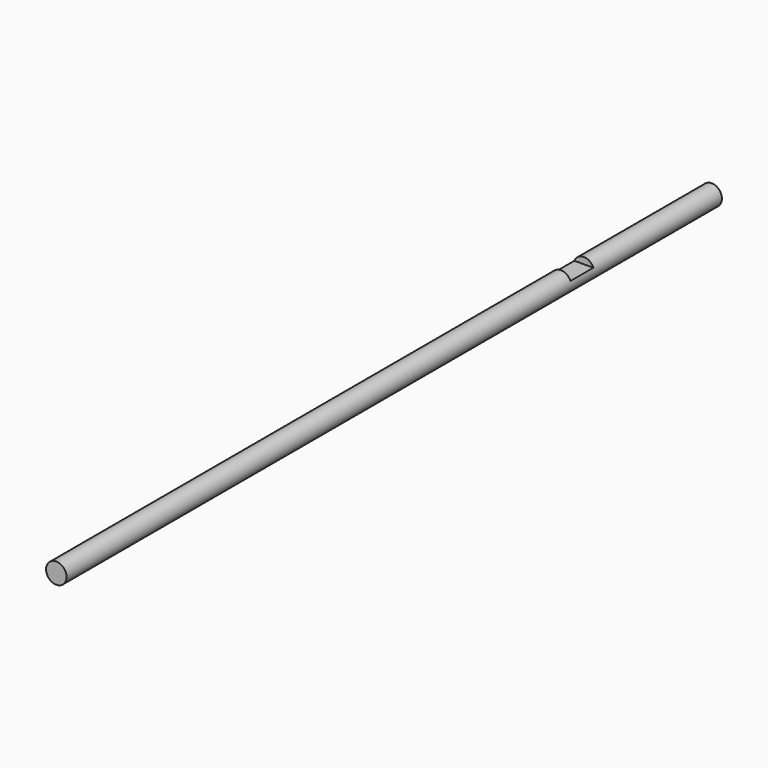
from build123d import *

# Parameters (mm, degrees)
F0_R     = 0.5
F1_DEPTH = 40
F2_W     = 1.4
F2_H     = 0.6255488368
F3_DEPTH = 12.5


with BuildPart() as f1:
    # F0 (on Front) → F1 (new body)
    with BuildSketch(Plane.XZ):
        Circle(F0_R)
    extrude(amount=F1_DEPTH)

    # F2 (on Right) → F3 (cut, symmetric)
    with BuildSketch(Plane.YZ):
        with Locations((-8.5, 0.5)):
            Rectangle(F2_W, F2_H)
    extrude(amount=F3_DEPTH, both=True, mode=Mode.SUBTRACT)


solid = f1.part
